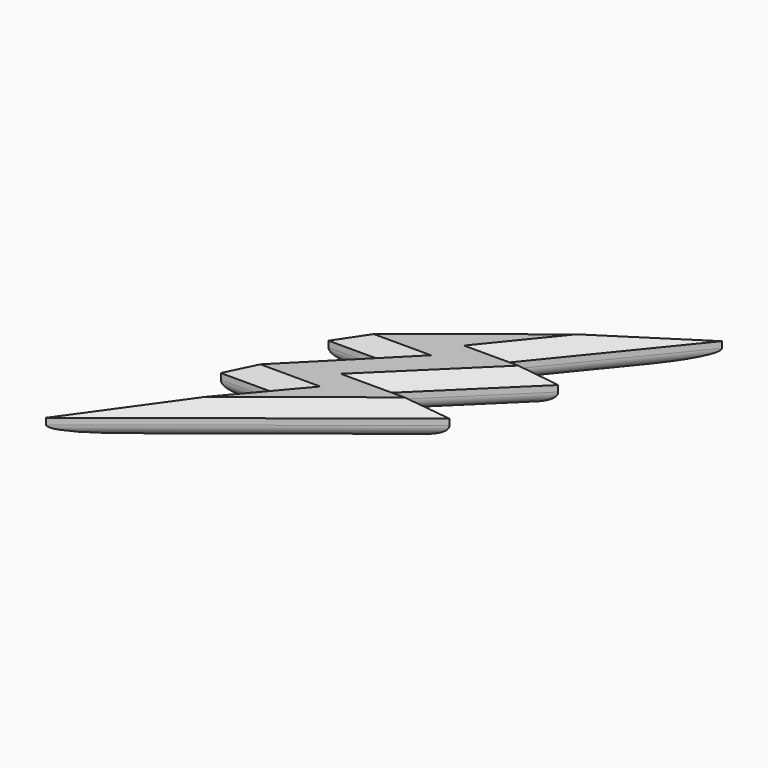
from build123d import *

# Parameters (mm, degrees)
F1_DEPTH = 12.7
F2_SIZE  = 5.08
F3_R     = 5.08


with BuildPart() as f1:
    # F0 (on Top) → F1 (new body)
    with BuildSketch(Plane.XY):
        Polygon((22.117395, 32.115713), (68.473089, 89.075649), (-30.903824, 9.998288), (-4.847682, 9.998288), (-43.931895, -29.388905), (-17.875753, -29.388905), (-68.473148, -89.075649), (33.630579, -8.180417), (5.150606, -8.180417), (46.355669, 32.115713), align=None)
    extrude(amount=F1_DEPTH)

    # F2
    f2_edges = [f1.edges().sort_by_distance(p)[0] for p in [
        (34.236532, 32.115713, 12.7),
        (45.295242, 60.595681, 12.7),
        (18.784632, 49.536968, 12.7),
        (-17.875753, 9.998288, 12.7),
        (-24.389789, -9.695309, 12.7),
        (-30.903824, -29.388905, 12.7),
        (-43.174451, -59.232277, 12.7),
        (-17.421285, -48.628033, 12.7),
        (19.390592, -8.180417, 12.7),
        (25.753137, 11.967648, 12.7),
    ]]
    chamfer(f2_edges, length=F2_SIZE)

    # F3
    f3_edges = [f1.edges().sort_by_distance(p)[0] for p in [
        (34.236532, 32.115713, 0),
        (45.295242, 60.595681, 0),
        (18.784632, 49.536968, 0),
        (-17.875753, 9.998288, 0),
        (-24.389789, -9.695309, 0),
        (-30.903824, -29.388905, 0),
        (-43.174451, -59.232277, 0),
        (-17.421285, -48.628033, 0),
        (19.390592, -8.180417, 0),
        (25.753137, 11.967648, 0),
    ]]
    fillet(f3_edges, radius=F3_R)


solid = f1.part
